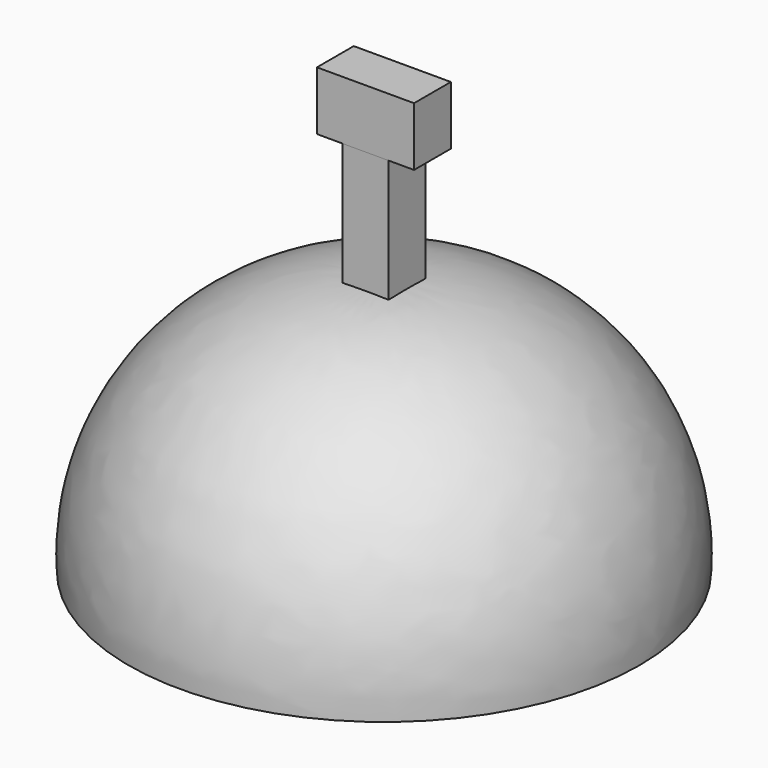
from build123d import *

# Parameters (mm, degrees)
F3_DEPTH = 11.43
F4_R     = 5.08
F6_START = 25.4
F5_W     = 4.572
F5_H     = 4.572
F6_DEPTH = 12.192
F8_START = 37.592
F8_DEPTH = 5.842


with BuildPart() as f1:
    # F0 (on Front) → F1 (revolve)
    with BuildSketch(Plane.XZ):
        with BuildLine():
            Line((0, 25.4), (0, 0))
            Line((0, 0), (25.4, 0))
            ThreePointArc((25.4, 0), (18.4073156554, 18.4073156554), (0, 25.4))
        make_face()
    revolve(axis=Axis((0, 0, 12.7), (0, 0, 1)))

    # F2 (on Top) → F3 (cut)
    with BuildSketch(Plane.XY):
        with BuildLine():
            ThreePointArc((-22.9268872803, 0), (0, -22.9268872803), (22.9268872803, 0))
            ThreePointArc((22.9268872803, 0), (0, 22.9268872803), (-22.9268872803, 0))
        make_face()
    extrude(amount=F3_DEPTH, mode=Mode.SUBTRACT)

    # F4
    f4_edges = [f1.edges().sort_by_distance(p)[0] for p in [
        (-22.926887, 0, 11.43),
    ]]
    fillet(f4_edges, radius=F4_R)

    # F5 (on Top) → F6 (join)
    with BuildSketch(Plane.XY.offset(F6_START)):
        Rectangle(F5_W, F5_H)
    extrude(amount=F6_DEPTH)

    # F7 (on Top) → F8 (join)
    with BuildSketch(Plane.XY.offset(F8_START)):
        Polygon((-4.826, -2.2987), (0, -2.2987), (4.826, -2.2987), (4.826, 2.2733), (-4.826, 2.2733), align=None)
    extrude(amount=F8_DEPTH)


solid = f1.part
